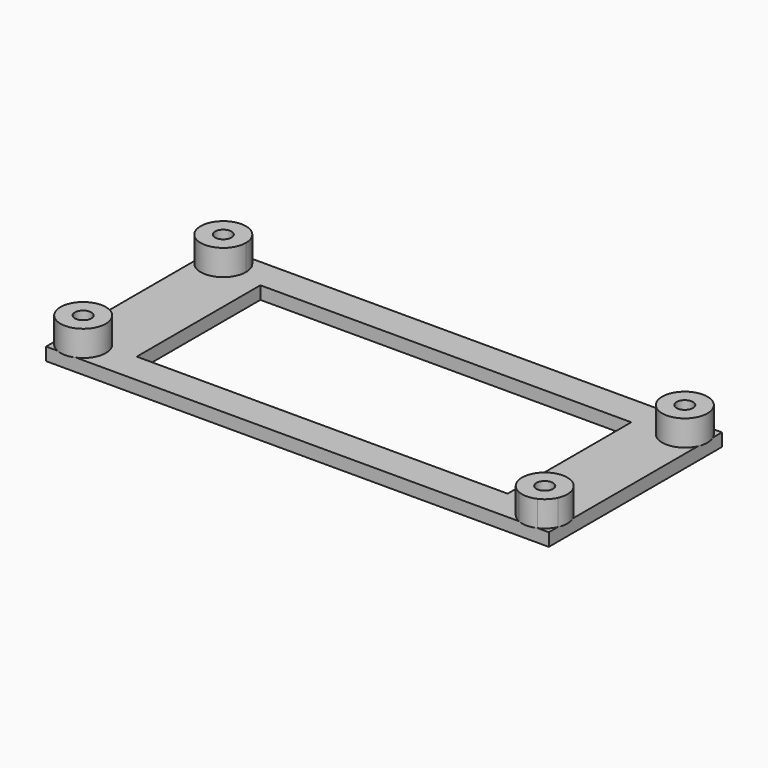
from build123d import *

# Parameters (mm, degrees)
F0_W     = 61.976
F0_H     = 26.67
F1_DEPTH = 1.5875
F2_R     = 1.016
F2_R_2   = 2.794
F3_DEPTH = 3.175
F4_DEPTH = 12.7
F5_W     = 45.72
F5_H     = 19.05
F6_DEPTH = 6.35


with BuildPart() as f1:
    # F0 (on Top) → F1 (new body)
    with BuildSketch(Plane.XY):
        Rectangle(F0_W, F0_H)
    extrude(amount=F1_DEPTH)

    # F2 (on face) → F3 (join)
    with BuildSketch(Plane.XY.offset(1.5875)):
        with BuildLine():
            ThreePointArc((-25.654, 10.795), (-26.096556, 12.304022), (-27.284026, 13.335))
            Line((-27.284026, 13.335), (-29.611974, 13.335))
            ThreePointArc((-29.611974, 13.335), (-30.423656, 12.770656), (-30.988, 11.958974))
            Line((-30.988, 11.958974), (-30.988, 9.631026))
            ThreePointArc((-30.988, 9.631026), (-27.852317, 8.065238), (-25.654, 10.795))
        make_face()
        with Locations((-28.448, 10.795)):
            Circle(F2_R, mode=Mode.SUBTRACT)
        with Locations((28.448, -10.795)):
            Circle(F2_R_2)
        with Locations((28.448, -10.795)):
            Circle(F2_R, mode=Mode.SUBTRACT)
        with Locations((-28.448, 10.795)):
            Circle(F2_R_2)
        with Locations((-28.448, 10.795)):
            Circle(F2_R, mode=Mode.SUBTRACT)
        with Locations((-28.448, -10.795)):
            Circle(F2_R_2)
        with Locations((-28.448, -10.795)):
            Circle(F2_R, mode=Mode.SUBTRACT)
        with Locations((28.448, 10.795)):
            Circle(F2_R_2)
        with Locations((28.448, 10.795)):
            Circle(F2_R, mode=Mode.SUBTRACT)
        with BuildLine():
            Line((30.988, -11.958974), (30.988, -9.631026))
            ThreePointArc((30.988, -9.631026), (26.472344, -8.819344), (27.284026, -13.335))
            Line((27.284026, -13.335), (29.611974, -13.335))
            ThreePointArc((29.611974, -13.335), (30.423656, -12.770656), (30.988, -11.958974))
        make_face()
        with Locations((28.448, -10.795)):
            Circle(F2_R, mode=Mode.SUBTRACT)
    extrude(amount=F3_DEPTH)

    # F2 (on face) → F4 (cut)
    with BuildSketch(Plane.XY.offset(1.5875)):
        with Locations((-28.448, 10.795)):
            Circle(F2_R)
        with Locations((28.448, -10.795)):
            Circle(F2_R)
        with Locations((28.448, 10.795)):
            Circle(F2_R)
        with Locations((-28.448, -10.795)):
            Circle(F2_R)
    extrude(amount=-F4_DEPTH, mode=Mode.SUBTRACT)

    # F5 (on face) → F6 (cut)
    with BuildSketch(Plane.XY.offset(1.5875)):
        Rectangle(F5_W, F5_H)
    extrude(amount=-F6_DEPTH, mode=Mode.SUBTRACT)


solid = f1.part
